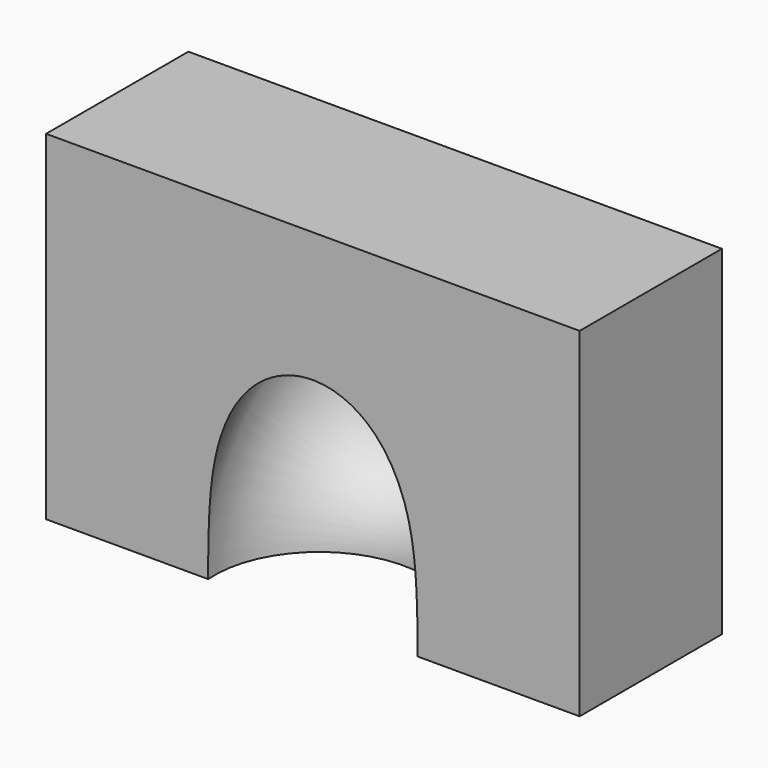
from build123d import *

# Parameters (mm, degrees)
F0_W     = 76.2
F0_H     = 48.466104
F1_DEPTH = 25.4
F2_R     = 15


with BuildPart() as f1:
    # F0 (on Front) → F1 (new body)
    with BuildSketch(Plane.XZ):
        Rectangle(F0_W, F0_H)
    extrude(amount=F1_DEPTH)

    # F2 (on face) → F3 (revolve, cut)
    with BuildSketch(Plane.XZ):
        Circle(F2_R)
    revolve(axis=Axis((0, 0, -24.233052), (-1, 0, 0)), mode=Mode.SUBTRACT)


solid = f1.part
